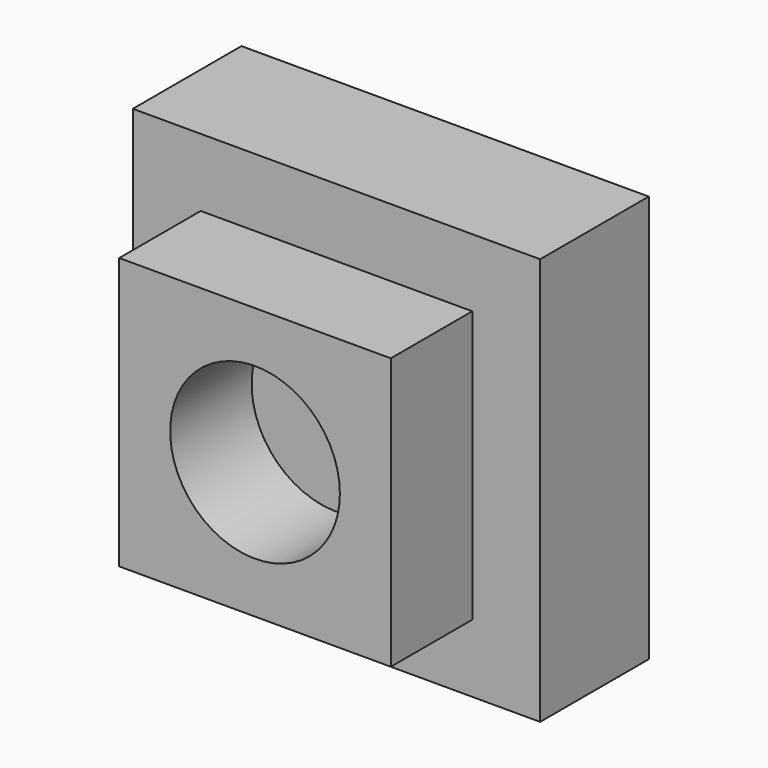
from build123d import *

# Parameters (mm, degrees)
F0_W     = 101.6
F0_H     = 101.6
F0_R     = 31.75
F1_DEPTH = 38.1
F0_W_2   = 152.4
F0_H_2   = 152.4
F2_DEPTH = 50.8
F3_DEPTH = 50.8


with BuildPart() as f1:
    # F0 (on Front) → F1 (new body)
    with BuildSketch(Plane.XZ):
        Rectangle(F0_W, F0_H)
        Circle(F0_R, mode=Mode.SUBTRACT)
    extrude(amount=F1_DEPTH)

    # F0 (on Front) → F3 (join)
    with BuildSketch(Plane.XZ):
        Circle(F0_R)
    extrude(amount=-F3_DEPTH)


with BuildPart() as f2:
    # F0 (on Front) → F2 (new body)
    with BuildSketch(Plane.XZ):
        Rectangle(F0_W_2, F0_H_2)
        Rectangle(F0_W, F0_H, mode=Mode.SUBTRACT)
    extrude(amount=-F2_DEPTH)


solid = Compound([f1.part, f2.part])
